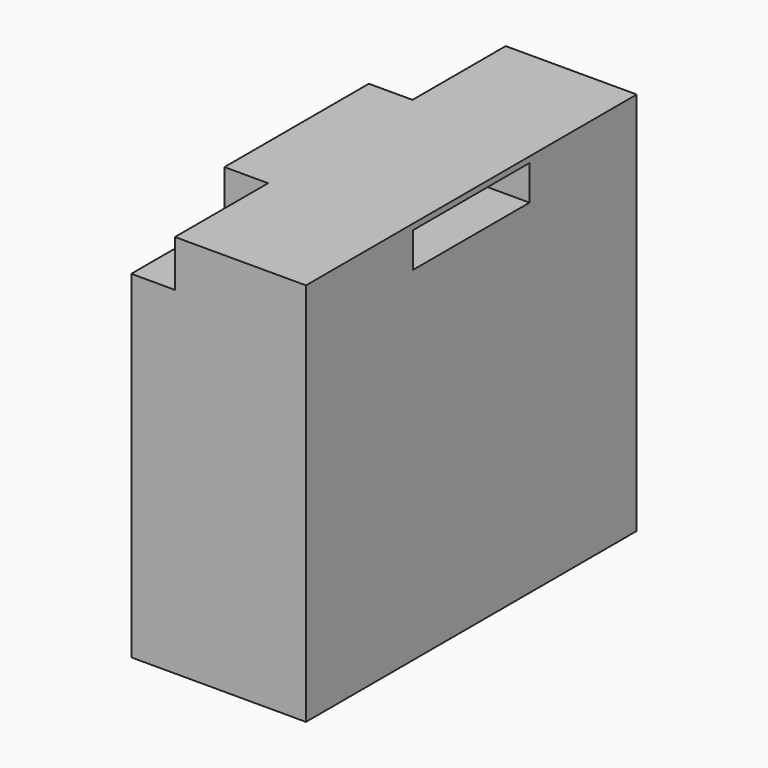
from build123d import *

# Parameters (mm, degrees)
F0_W     = 76.2
F0_H     = 180.34
F1_DEPTH = 167.64
F2_W     = 19.05
F2_H     = 50.8
F3_DEPTH = 20.32
F4_W     = 63.5
F4_H     = 15.24
F5_DEPTH = 19.05
F6_W     = 63.5
F6_H     = 15.24
F7_DEPTH = 19.05


with BuildPart() as f1:
    # F0 (on Top) → F1 (new body)
    with BuildSketch(Plane.XY):
        Rectangle(F0_W, F0_H)
    extrude(amount=F1_DEPTH)

    # F2 (on face) → F3 (cut)
    with BuildSketch(Plane.XY.offset(167.64)):
        with Locations((-28.575, -64.77)):
            Rectangle(F2_W, F2_H)
        with Locations((-28.575, 64.77)):
            Rectangle(F2_W, F2_H)
    extrude(amount=-F3_DEPTH, mode=Mode.SUBTRACT)

    # F4 (on face) → F5 (cut)
    with BuildSketch(Plane(origin=(-38.1, 0, 0), x_dir=(0, -1, 0), z_dir=(-1, 0, 0))):
        with Locations((0, 157.48)):
            Rectangle(F4_W, F4_H)
    extrude(amount=-F5_DEPTH, mode=Mode.SUBTRACT)

    # F6 (on face) → F7 (cut)
    with BuildSketch(Plane.YZ.offset(38.1)):
        with Locations((0, 157.48)):
            Rectangle(F6_W, F6_H)
    extrude(amount=-F7_DEPTH, mode=Mode.SUBTRACT)


solid = f1.part
